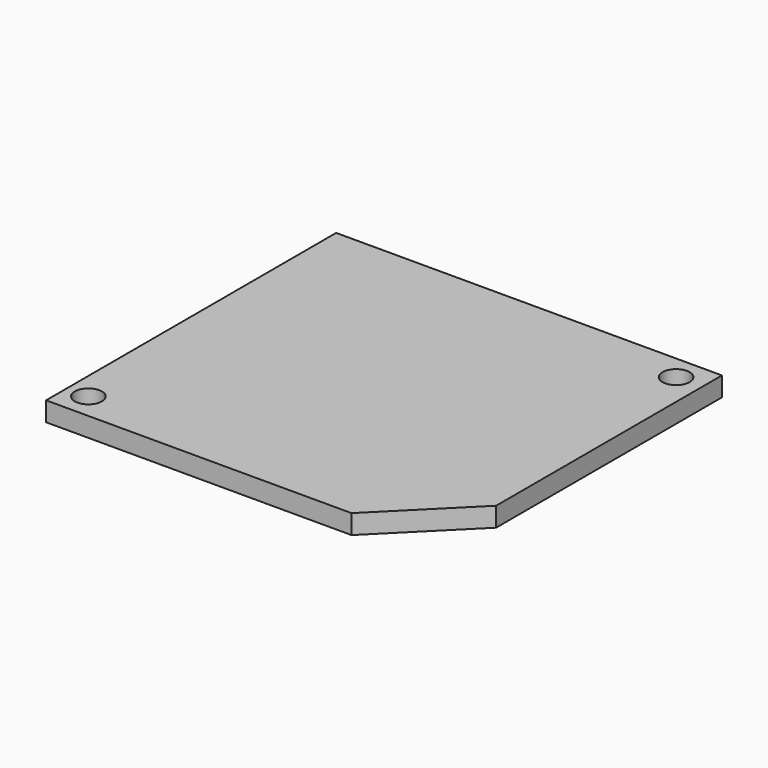
from build123d import *

# Parameters (mm, degrees)
F0_R     = 1.05
F1_DEPTH = 1.5


with BuildPart() as f1:
    # F0 (on Top) → F1 (new body)
    with BuildSketch(Plane.XY):
        Polygon((15.09471, -7.568191), (15.09471, 14.303462), (-14.80529, 14.303462), (-14.80529, -13.796538), (8.866363, -13.796538), align=None)
        with Locations((-13.125742, -11.796538)):
            Circle(F0_R, mode=Mode.SUBTRACT)
        Polygon((-13.30529, 7.762757), (-13.30529, 12.803533), (-7.466408, 12.803533), (4.445195, 12.803533), (10.246226, 12.803533), (12.438802, 10.717391), (13.604544, 9.608238), (13.604544, 5.855257), (13.604544, 2.415531), (13.604544, 1.361999), (13.604544, -2.344804), (13.604544, -4.056675), (13.604544, -6.884241), (8.149035, -12.33975), (-10.196346, -12.33975), (-13.30529, -8.629512), (-13.30529, -6.884241), (-13.30529, -2.344804), (-13.30529, 2.415531), align=None, mode=Mode.SUBTRACT)
        with Locations((13.068422, 12.392454)):
            Circle(F0_R, mode=Mode.SUBTRACT)
        Polygon((-7.466408, 12.803533), (-13.30529, 12.803533), (-13.30529, 7.762757), align=None)
        Polygon((-7.466408, 12.803533), (-13.30529, 7.762757), (4.445195, 12.803533), align=None)
        Polygon((4.445195, 12.803533), (-13.30529, 7.762757), (-13.30529, 2.415531), (12.438802, 10.717391), (10.246226, 12.803533), align=None)
        Polygon((12.438802, 10.717391), (-13.30529, 2.415531), (-13.30529, -2.344804), (13.604544, 5.855257), (13.604544, 9.608238), align=None)
        Polygon((13.604544, 5.855257), (-13.30529, -2.344804), (-13.30529, -6.884241), (-13.30529, -8.629512), (13.604544, 1.361999), (13.604544, 2.415531), align=None)
        Polygon((13.604544, 1.361999), (-13.30529, -8.629512), (-10.196346, -12.33975), (13.604544, -4.056675), (13.604544, -2.344804), align=None)
        Polygon((13.604544, -4.056675), (-10.196346, -12.33975), (8.149035, -12.33975), (13.604544, -6.884241), align=None)
    extrude(amount=F1_DEPTH)


solid = f1.part
